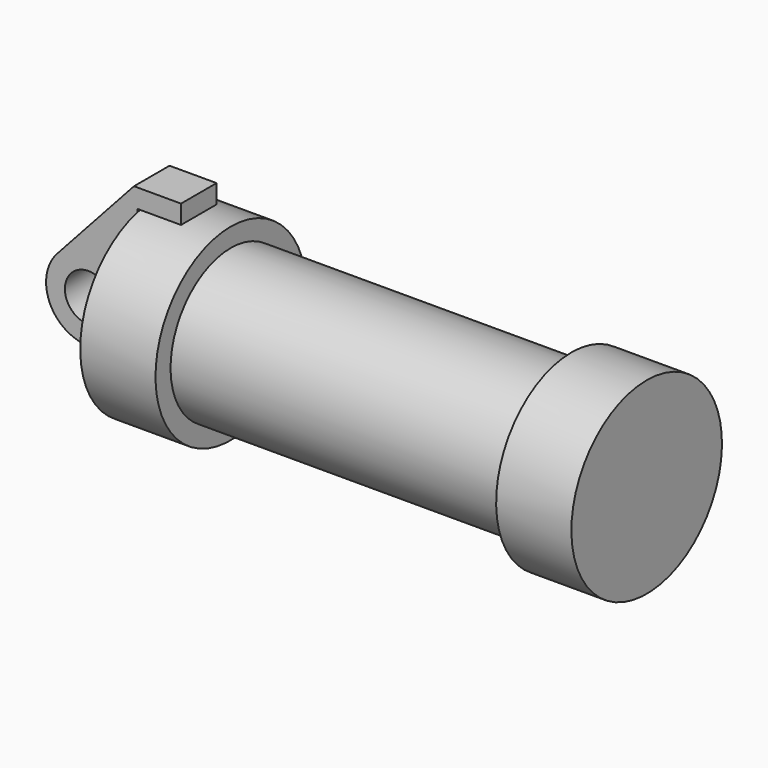
from build123d import *

# Parameters (mm, degrees)
F0_W     = 5.842
F0_H     = 12.7
F0_R     = 3.175
F2_DEPTH = 3


with BuildPart() as f1:
    # F0 (on Front) → F1 (revolve)
    with BuildSketch(Plane.XZ):
        Polygon((-10.83689, 6.608515), (-10.83689, -6.091485), (49.61511, -6.091485), (49.61511, 6.608515), (39.45511, 6.608515), (39.45511, 4.068515), (-6.51889, 4.068515), (-6.51889, 6.608515), align=None)
        with Locations((-13.75789, 0.258515)):
            Rectangle(F0_W, F0_H)
    revolve(axis=Axis((16.46811, 0, -6.091485), (-1, 0, 0)))


with BuildPart() as f2:
    # F0 (on Front) → F2 (new body, symmetric)
    with BuildSketch(Plane.XZ):
        with BuildLine():
            ThreePointArc((-24.861553, -11.598468), (-19.874681, -10.640824), (-17.61869, -6.091485))
            ThreePointArc((-17.61869, -6.091485), (-21.270851, -0.761765), (-27.55952, -2.243942))
            ThreePointArc((-27.55952, -2.243942), (-28.824868, -7.675212), (-24.861553, -11.598468))
        make_face()
        with Locations((-23.33369, -6.091485)):
            Circle(F0_R, mode=Mode.SUBTRACT)
        with BuildLine():
            Line((-17.61869, -6.091485), (-16.67889, -6.091485))
            Line((-16.67889, -6.091485), (-16.67889, 6.608515))
            Line((-16.67889, 6.608515), (-10.83689, 6.608515))
            Line((-10.83689, 6.608515), (-10.83689, 9.148515))
            Line((-10.83689, 9.148515), (-17.18689, 9.148515))
            Line((-17.18689, 9.148515), (-27.55952, -2.243942))
            ThreePointArc((-27.55952, -2.243942), (-21.270851, -0.761765), (-17.61869, -6.091485))
        make_face()
        with BuildLine():
            Line((-10.83689, -6.091485), (-16.67889, -6.091485))
            Line((-16.67889, -6.091485), (-17.61869, -6.091485))
            ThreePointArc((-17.61869, -6.091485), (-19.874681, -10.640824), (-24.861553, -11.598468))
            Line((-24.861553, -11.598468), (-10.83689, -15.489485))
            Line((-10.83689, -15.489485), (-10.83689, -6.091485))
        make_face()
    extrude(amount=F2_DEPTH, both=True)


solid = Compound([f1.part, f2.part])
